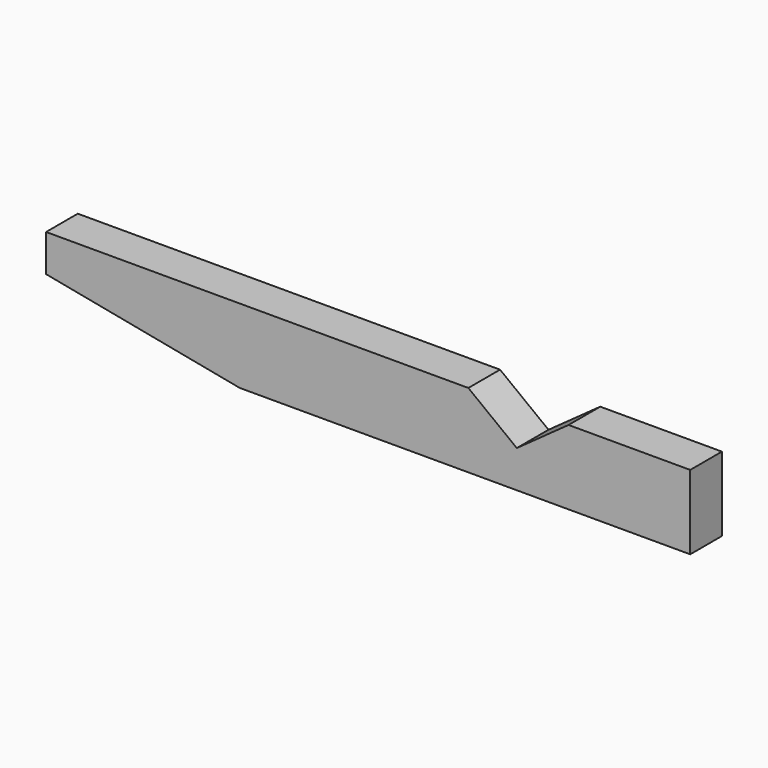
from build123d import *

# Parameters (mm, degrees)
F1_DEPTH = 5.08


with BuildPart() as f1:
    # F0 (on Front) → F1 (new body)
    with BuildSketch(Plane.XZ):
        Polygon((-16.462963, -4.7625), (41.275, -4.7625), (41.275, 0), (19.05, 0), (12.84111, 4.7625), (-41.275, 4.7625), (-41.275, 0), align=None)
        Polygon((19.05, 0), (41.275, 0), (41.275, 4.7625), (25.682222, 4.7625), align=None)
    extrude(amount=F1_DEPTH)


solid = f1.part
